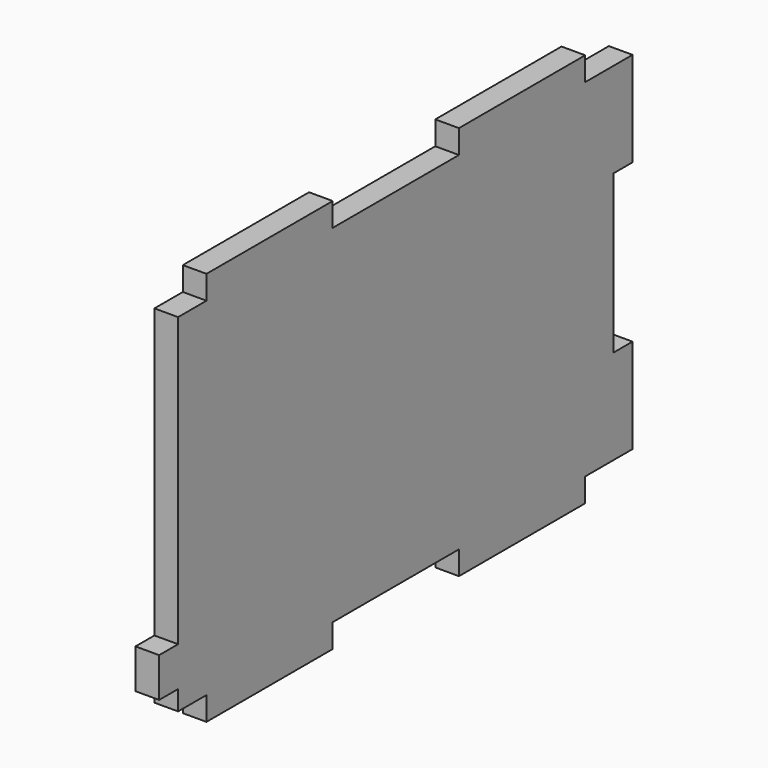
from build123d import *

# Parameters (mm, degrees)
F1_DEPTH = 6


with BuildPart() as f1:
    # F0 (on Right) → F1 (new body)
    with BuildSketch(Plane.YZ):
        Polygon((-50.495536, 79), (-50.495536, 73), (-59.495536, 73), (-59.495536, 0), (-65.495536, 0), (-65.495536, -10), (-59.495536, -10), (-59.495536, -15), (-50.495536, -15), (-50.495536, -21), (-10.495536, -21), (-10.495536, -15), (29.504464, -15), (29.504464, -21), (69.504464, -21), (69.504464, -15), (84.504464, -15), (84.504464, 9), (78.504464, 9), (78.504464, 49), (84.504464, 49), (84.504464, 73), (69.504464, 73), (69.504464, 79), (29.504464, 79), (29.504464, 73), (-10.495536, 73), (-10.495536, 79), align=None)
    extrude(amount=F1_DEPTH)


solid = f1.part
